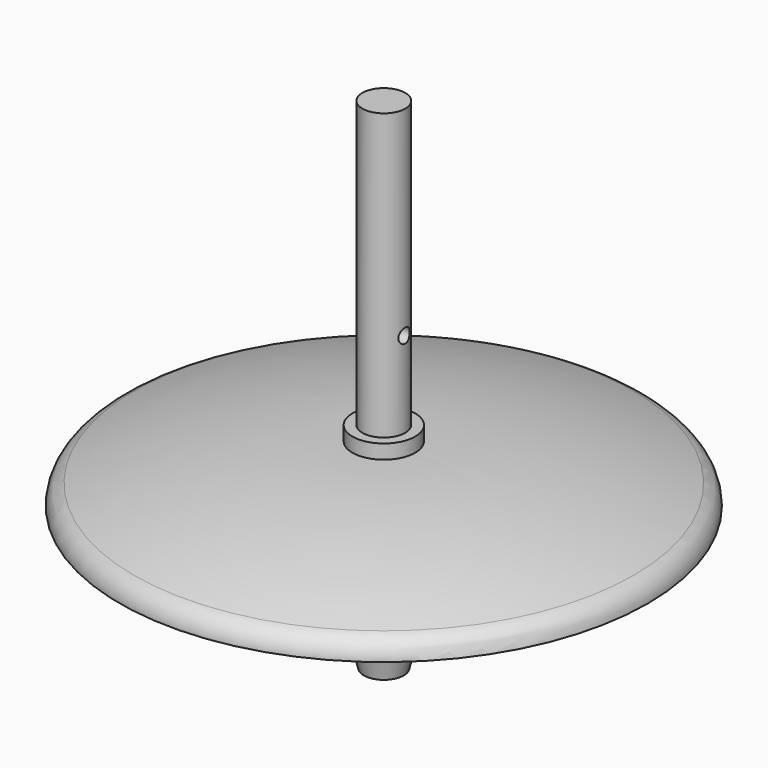
from build123d import *

# Parameters (mm, degrees)
F2_R     = 1.27
F3_DEPTH = 12.7


with BuildPart() as f1:
    # F0 (on Front) → F1 (revolve)
    with BuildSketch(Plane.XZ):
        with BuildLine():
            Line((0, 88.9), (0, 0))
            Line((0, 0), (3.556, 0))
            Line((3.556, 0), (7.62, 16.51))
            Line((7.62, 16.51), (7.62, 17.78))
            ThreePointArc((7.62, 17.78), (27.6703198229, 19.7025142484), (46.99, 25.4))
            ThreePointArc((46.99, 25.4), (46.2903851118, 27.5932069174), (44.45, 28.9761748182))
            ThreePointArc((44.45, 28.9761748182), (25.2958778539, 33.9023998131), (5.588, 35.56))
            Line((5.588, 35.56), (5.588, 38.1))
            Line((5.588, 38.1), (3.81, 38.1))
            Line((3.81, 38.1), (3.81, 88.9))
            Line((3.81, 88.9), (0, 88.9))
        make_face()
    revolve(axis=Axis((0, 0, 44.45), (0, 0, 1)))

    # F2 (on Right) → F3 (cut, symmetric)
    with BuildSketch(Plane.YZ):
        with Locations((0, 53.34)):
            Circle(F2_R)
    extrude(amount=F3_DEPTH, both=True, mode=Mode.SUBTRACT)


solid = f1.part
